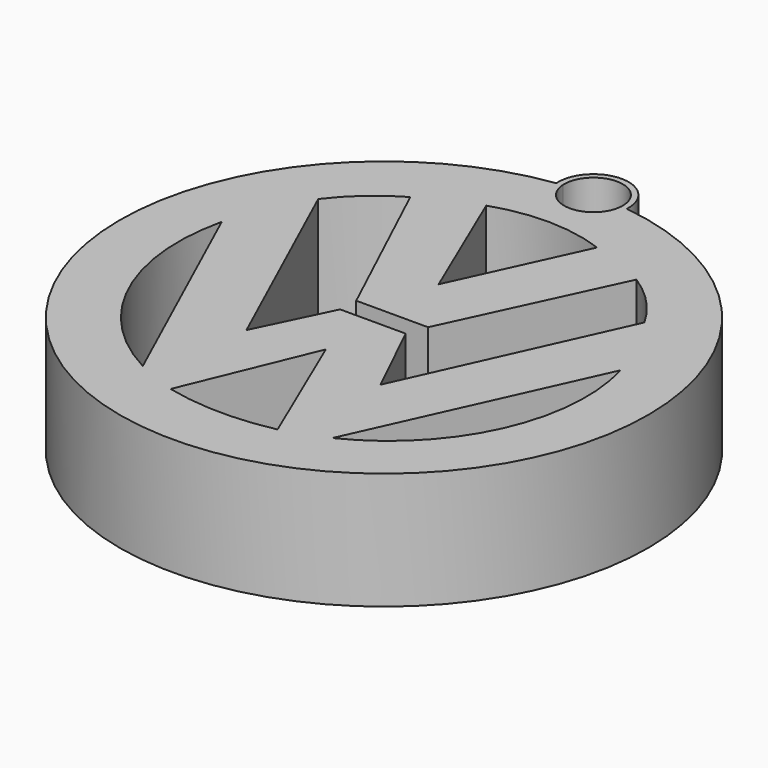
from build123d import *

# Parameters (mm, degrees)
F1_DEPTH = 10


with BuildPart() as f1:
    # F0 (on Top) → F1 (new body)
    with BuildSketch(Plane.XY):
        with BuildLine():
            ThreePointArc((2.497035, 22.477096), (0.016859, 20.098873), (-2.495166, 22.44343))
            ThreePointArc((-2.495166, 22.44343), (-2.743734, 22.412651), (-2.991944, 22.379114))
            ThreePointArc((-2.991944, 22.379114), (0.304191, -22.508373), (2.994635, 22.419486))
            ThreePointArc((2.994635, 22.419486), (2.745995, 22.449673), (2.497035, 22.477096))
        make_face()
        with BuildLine():
            ThreePointArc((4.713637, -17.017649), (0.09357, -17.47788), (-4.514231, -16.907794))
            Line((-4.514231, -16.907794), (0, -5.973655))
            Line((0, -5.973655), (4.713637, -17.017649))
        make_face(mode=Mode.SUBTRACT)
        with BuildLine():
            ThreePointArc((-8.029609, -15.479672), (-15.820727, -7.22331), (-16.927909, 4.074618))
            Line((-16.927909, 4.074618), (-8.029609, -15.479672))
        make_face(mode=Mode.SUBTRACT)
        with BuildLine():
            ThreePointArc((17.23717, 3.964762), (16.349809, -7.479071), (8.33887, -15.699385))
            Line((8.33887, -15.699385), (17.23717, 3.964762))
        make_face(mode=Mode.SUBTRACT)
        with BuildLine():
            ThreePointArc((-13.96181, 10.665952), (-11.867447, 12.939615), (-9.347876, 14.730607))
            Line((-9.347876, 14.730607), (-2.811192, 0.784471))
            Line((-2.811192, 0.784471), (3.325497, 0.784471))
            Line((3.325497, 0.784471), (9.876846, 14.840462))
            ThreePointArc((9.876846, 14.840462), (12.296267, 12.852136), (14.161215, 10.336385))
            Line((14.161215, 10.336385), (6.031903, -7.679928))
            Line((6.031903, -7.679928), (2.736236, -0.868883))
            Line((2.736236, -0.868883), (-2.866398, -0.868883))
            Line((-2.866398, -0.868883), (-5.876908, -7.100868))
            Line((-5.876908, -7.100868), (-13.96181, 10.665952))
        make_face(mode=Mode.SUBTRACT)
        with BuildLine():
            ThreePointArc((-4.624086, 16.927719), (0.16409, 17.695766), (4.933347, 16.817864))
            Line((4.933347, 16.817864), (0, 6.066685))
            Line((0, 6.066685), (-4.624086, 16.927719))
        make_face(mode=Mode.SUBTRACT)
        with BuildLine():
            ThreePointArc((-2.991944, 22.379114), (-2.743734, 22.412651), (-2.495166, 22.44343))
            ThreePointArc((-2.495166, 22.44343), (-0.07773, 25.097607), (2.5, 22.598816))
            ThreePointArc((2.5, 22.598816), (2.499259, 22.537938), (2.497035, 22.477096))
            ThreePointArc((2.497035, 22.477096), (2.745995, 22.449673), (2.994635, 22.419486))
            ThreePointArc((2.994635, 22.419486), (-0.020231, 25.598748), (-2.991944, 22.379114))
        make_face()
    extrude(amount=F1_DEPTH)


solid = f1.part
